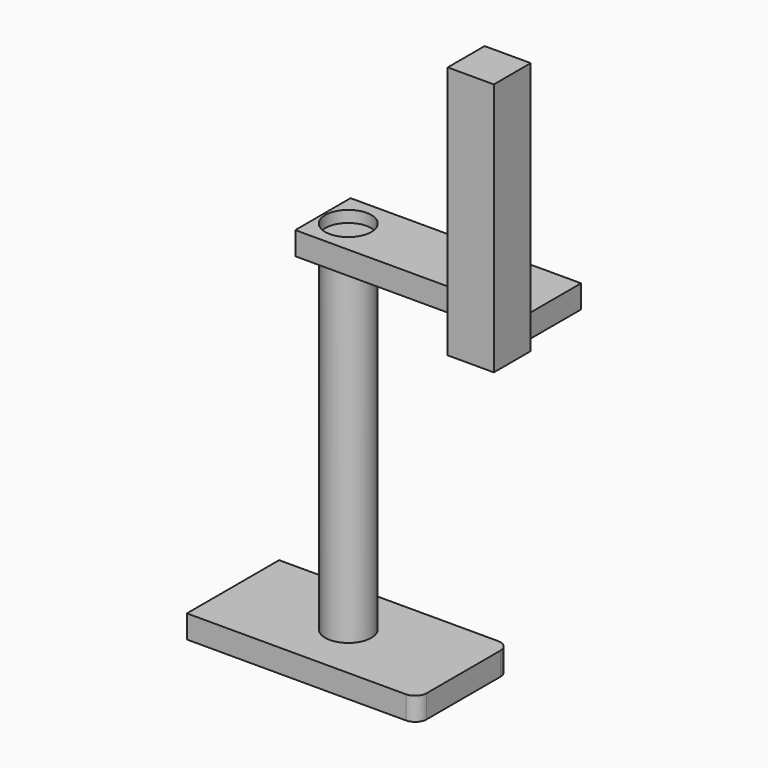
from build123d import *

# Parameters (mm, degrees)
F0_W     = 100
F0_H     = 50
F1_DEPTH = 10
F2_R     = 5
F3_R     = 5
F4_R     = 10
F5_DEPTH = 150
F6_W     = 100
F6_H     = 30
F6_R     = 10
F7_DEPTH = 5
F8_W     = 20
F8_H     = 110
F9_DEPTH = 20


with BuildPart() as f1:
    # F0 (on Top) → F1 (new body)
    with BuildSketch(Plane.XY):
        Rectangle(F0_W, F0_H)
    extrude(amount=F1_DEPTH)

    # F2
    f2_edges = [f1.edges().sort_by_distance(p)[0] for p in [
        (50, -25, 5),
    ]]
    fillet(f2_edges, radius=F2_R)

    # F3
    f3_edges = [f1.edges().sort_by_distance(p)[0] for p in [
        (50, 25, 5),
    ]]
    fillet(f3_edges, radius=F3_R)


with BuildPart() as f5:
    # F4 (on face) → F5 (new body)
    with BuildSketch(Plane.XY.offset(10)):
        Circle(F4_R)
    extrude(amount=F5_DEPTH)


with BuildPart() as f7:
    # F6 (on face) → F7 (new body, symmetric)
    with BuildSketch(Plane.XY.offset(160)):
        with Locations((39, 0)):
            Rectangle(F6_W, F6_H)
        Circle(F6_R, mode=Mode.SUBTRACT)
    extrude(amount=F7_DEPTH, both=True)


with BuildPart() as f9:
    # F8 (on face) → F9 (new body)
    with BuildSketch(Plane.XZ.offset(15)):
        with Locations((81.150837, 206.98936)):
            Rectangle(F8_W, F8_H)
    extrude(amount=F9_DEPTH)


solid = Compound([f1.part, f5.part, f7.part, f9.part])
